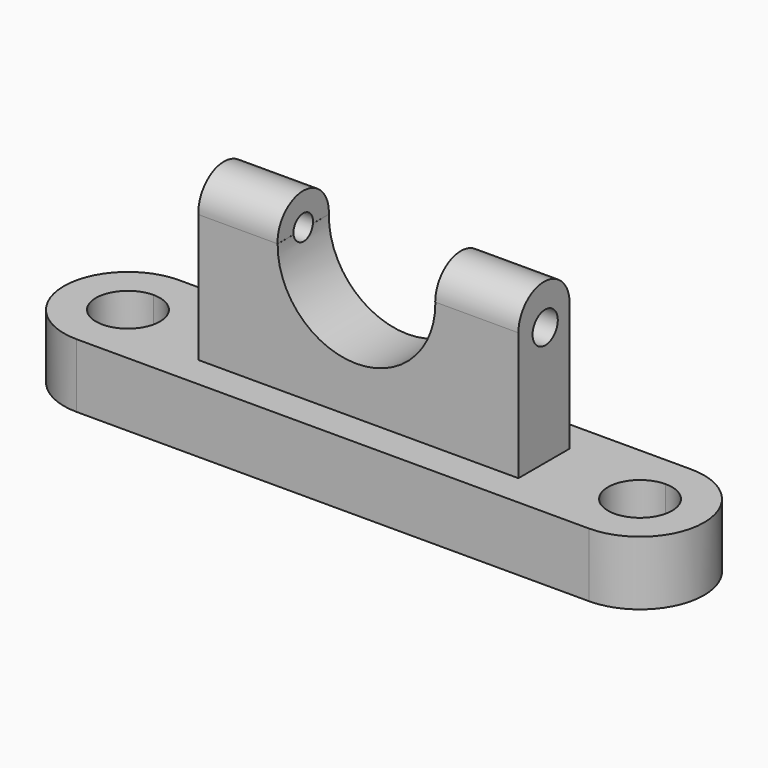
from build123d import *

# Parameters (mm, degrees)
F1_DEPTH  = 12.7
F2_W      = 63.5
F2_H      = 12.7
F3_DEPTH  = 25.4
F5_DEPTH  = 25.4
F8_DEPTH  = 15.7226
F9_DEPTH  = 16.51
F11_R     = 3.127999
F12_DEPTH = 25.4
F10_R     = 2.429756
F13_DEPTH = 25.4


with BuildPart() as f1:
    # F0 (on Top) → F1 (new body)
    with BuildSketch(Plane.XY):
        with BuildLine():
            Line((35.525675, 25.4), (-66.074325, 25.4))
            Line((-66.074325, 25.4), (-66.074325, 19.05))
            ThreePointArc((-66.074325, 19.05), (-61.584197, 17.190128), (-59.724325, 12.7))
            ThreePointArc((-59.724325, 12.7), (-61.584197, 8.209872), (-66.074325, 6.35))
            Line((-66.074325, 6.35), (-66.074325, 0))
            Line((-66.074325, 0), (35.525675, 0))
            Line((35.525675, 0), (35.525675, 6.35))
            ThreePointArc((35.525675, 6.35), (29.175675, 12.7), (35.525675, 19.05))
            Line((35.525675, 19.05), (35.525675, 25.4))
        make_face()
        Polygon((-47.024325, 6.35), (-47.024325, 12.7), (-47.024325, 19.05), (16.475675, 19.05), (16.475675, 6.35), align=None, mode=Mode.SUBTRACT)
        with BuildLine():
            Line((-66.074325, 19.05), (-66.074325, 25.4))
            ThreePointArc((-66.074325, 25.4), (-78.774325, 12.7), (-66.074325, 0))
            Line((-66.074325, 0), (-66.074325, 6.35))
            ThreePointArc((-66.074325, 6.35), (-72.424325, 12.7), (-66.074325, 19.05))
        make_face()
        with BuildLine():
            ThreePointArc((35.525675, 0), (48.225675, 12.7), (35.525675, 25.4))
            Line((35.525675, 25.4), (35.525675, 19.05))
            ThreePointArc((35.525675, 19.05), (40.015803, 17.190128), (41.875675, 12.7))
            ThreePointArc((41.875675, 12.7), (40.015803, 8.209872), (35.525675, 6.35))
            Line((35.525675, 6.35), (35.525675, 0))
        make_face()
        Polygon((-47.024325, 19.05), (-47.024325, 12.7), (-47.024325, 6.35), (16.475675, 6.35), (16.475675, 19.05), align=None)
    extrude(amount=F1_DEPTH)

    # F2 (on face) → F3 (join)
    with BuildSketch(Plane.XY.offset(12.7)):
        with Locations((-15.274325, 12.7)):
            Rectangle(F2_W, F2_H)
    extrude(amount=F3_DEPTH)

    # F4 (on face) → F5 (cut)
    with BuildSketch(Plane.XZ.offset(-6.35)):
        with BuildLine():
            Line((0, 38.1), (-31.290911, 38.1))
            ThreePointArc((-31.290911, 38.1), (-15.645456, 22.243986), (0, 38.1))
        make_face()
    extrude(amount=-F5_DEPTH, mode=Mode.SUBTRACT)

    # F7 (on face) → F8 (join)
    with BuildSketch(Plane(origin=(-47.024325, 0, 0), x_dir=(0, -1, 0), z_dir=(-1, 0, 0))):
        with BuildLine():
            Line((-19.05, 38.1), (-6.35, 38.1))
            ThreePointArc((-6.35, 38.1), (-12.7, 44.788843), (-19.05, 38.1))
        make_face()
    extrude(amount=-F8_DEPTH)

    # F6 (on face) → F9 (join)
    with BuildSketch(Plane.YZ.offset(16.475675)):
        with BuildLine():
            Line((6.35, 38.1), (19.05, 38.1))
            ThreePointArc((19.05, 38.1), (12.7, 44.45), (6.35, 38.1))
        make_face()
    extrude(amount=-F9_DEPTH)

    # F11 (on face) → F12 (cut)
    with BuildSketch(Plane.YZ.offset(16.475675)):
        with Locations((12.986762, 36.340035)):
            Circle(F11_R)
    extrude(amount=-F12_DEPTH, mode=Mode.SUBTRACT)

    # F10 (on face) → F13 (cut)
    with BuildSketch(Plane(origin=(-47.024325, 0, 0), x_dir=(0, -1, 0), z_dir=(-1, 0, 0))):
        with Locations((-12.7, 38.430261)):
            Circle(F10_R)
    extrude(amount=-F13_DEPTH, mode=Mode.SUBTRACT)


solid = f1.part
